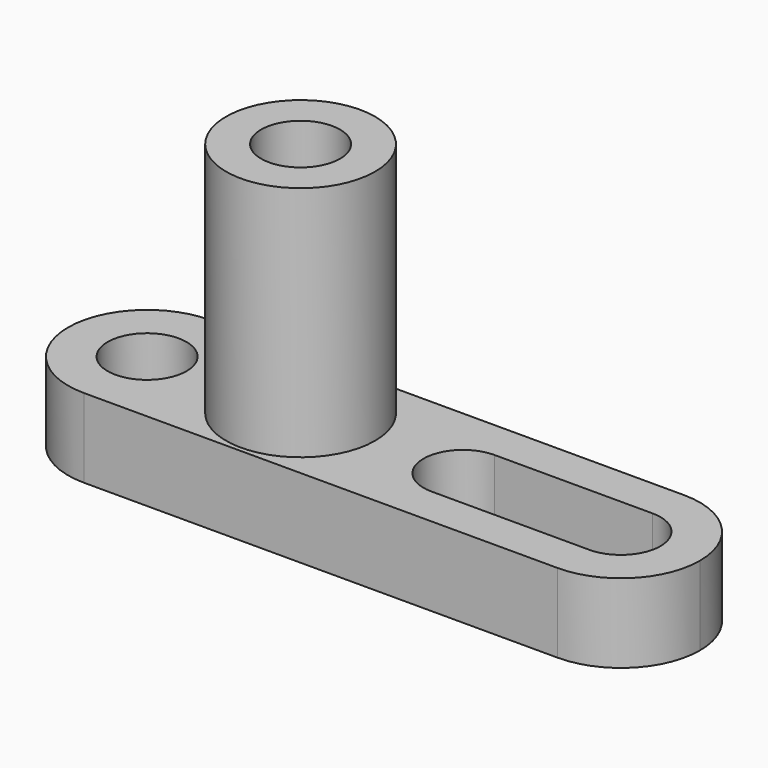
from build123d import *

# Parameters (mm, degrees)
F0_W      = 101.6
F0_H      = 12.7
F1_DEPTH  = 25.4
F3_DEPTH  = 25.4
F5_DEPTH  = 25.4
F6_R      = 6.35
F7_DEPTH  = 25.4
F8_R      = 11.983933
F9_DEPTH  = 38.1
F10_R     = 6.35
F11_DEPTH = 50.8
F13_DEPTH = 12.7


with BuildPart() as f1:
    # F0 (on Front) → F1 (new body)
    with BuildSketch(Plane.XZ):
        with Locations((50.8, 6.35)):
            Rectangle(F0_W, F0_H)
    extrude(amount=F1_DEPTH)

    # F2 (on face) → F3 (cut)
    with BuildSketch(Plane.XY.offset(12.7)):
        with BuildLine():
            ThreePointArc((101.6, -12.7), (97.880256, -21.680256), (88.9, -25.4))
            Line((88.9, -25.4), (101.6, -25.4))
            Line((101.6, -25.4), (101.6, -12.7))
        make_face()
        with BuildLine():
            ThreePointArc((88.9, 0), (97.880256, -3.719744), (101.6, -12.7))
            Line((101.6, -12.7), (101.6, 0))
            Line((101.6, 0), (88.9, 0))
        make_face()
    extrude(amount=-F3_DEPTH, mode=Mode.SUBTRACT)

    # F4 (on face) → F5 (cut)
    with BuildSketch(Plane.XY.offset(12.7)):
        with BuildLine():
            ThreePointArc((12.7, -25.4), (3.719744, -21.680256), (0, -12.7))
            Line((0, -12.7), (0, -25.4))
            Line((0, -25.4), (12.7, -25.4))
        make_face()
        with BuildLine():
            ThreePointArc((0, -12.7), (3.719744, -3.719744), (12.7, 0))
            Line((12.7, 0), (0, 0))
            Line((0, 0), (0, -12.7))
        make_face()
    extrude(amount=-F5_DEPTH, mode=Mode.SUBTRACT)

    # F6 (on face) → F7 (cut)
    with BuildSketch(Plane.XY.offset(12.7)):
        with Locations((12.7, -12.7)):
            Circle(F6_R)
    extrude(amount=-F7_DEPTH, mode=Mode.SUBTRACT)

    # F8 (on face) → F9 (join)
    with BuildSketch(Plane.XY.offset(12.7)):
        with Locations((37.383933, -12.7)):
            Circle(F8_R)
    extrude(amount=F9_DEPTH)

    # F10 (on face) → F11 (cut)
    with BuildSketch(Plane.XY.offset(50.8)):
        with Locations((37.383933, -12.7)):
            Circle(F10_R)
    extrude(amount=-F11_DEPTH, mode=Mode.SUBTRACT)

    # F12 (on face) → F13 (cut)
    with BuildSketch(Plane.XY.offset(12.7)):
        with BuildLine():
            ThreePointArc((63.5, -19.05), (67.990128, -17.190128), (69.85, -12.7))
            ThreePointArc((69.85, -12.7), (67.990128, -8.209872), (63.5, -6.35))
            ThreePointArc((63.5, -6.35), (57.15, -12.7), (63.5, -19.05))
        make_face()
        with BuildLine():
            ThreePointArc((63.5, -6.35), (67.990128, -8.209872), (69.85, -12.7))
            ThreePointArc((69.85, -12.7), (67.990128, -17.190128), (63.5, -19.05))
            Line((63.5, -19.05), (88.9, -19.05))
            ThreePointArc((88.9, -19.05), (82.55, -12.7), (88.9, -6.35))
            Line((88.9, -6.35), (63.5, -6.35))
        make_face()
        with BuildLine():
            ThreePointArc((95.25, -12.7), (93.390128, -8.209872), (88.9, -6.35))
            ThreePointArc((88.9, -6.35), (82.55, -12.7), (88.9, -19.05))
            ThreePointArc((88.9, -19.05), (93.390128, -17.190128), (95.25, -12.7))
        make_face()
    extrude(amount=-F13_DEPTH, mode=Mode.SUBTRACT)


solid = f1.part
